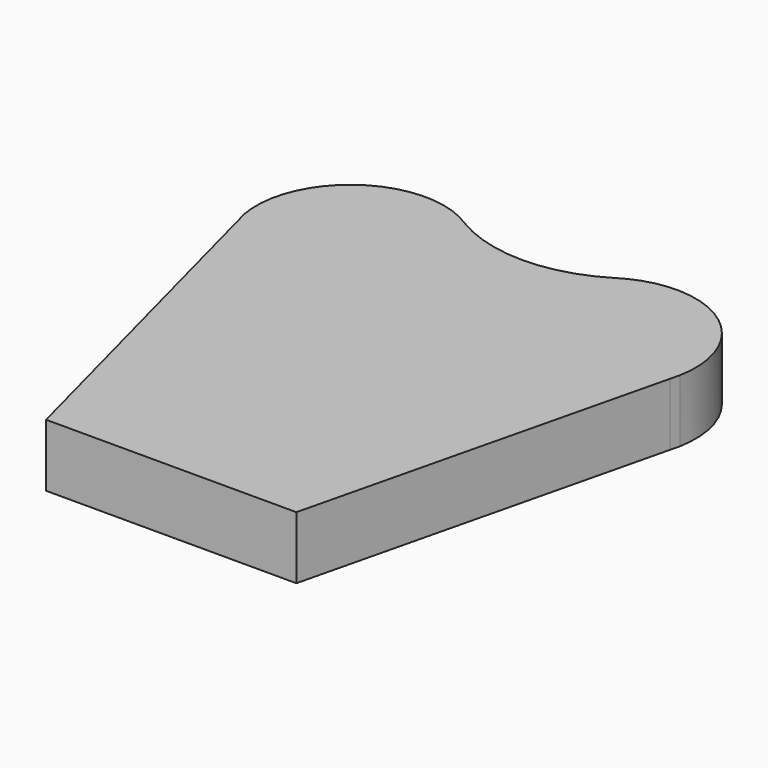
from build123d import *

# Parameters (mm, degrees)
F1_DEPTH = 5


with BuildPart() as f1:
    # F0 (on Top) → F1 (new body)
    with BuildSketch(Plane.XY):
        with BuildLine():
            ThreePointArc((-7.531189, 65.674413), (-13.478061, 64.012162), (-19.424933, 65.674413))
            ThreePointArc((-19.424933, 65.674413), (-27.691208, 65.630451), (-30.896061, 58.010598))
            Line((-30.896061, 58.010598), (-30.628454, 56.988378))
            Line((-30.628454, 56.988378), (-23.195385, 28.595213))
            Line((-23.195385, 28.595213), (-13.195385, 28.595213))
            Line((-13.195385, 28.595213), (-3.195385, 28.595213))
            Line((-3.195385, 28.595213), (3.75462, 57.24662))
            Line((3.75462, 57.24662), (3.93994, 58.010598))
            ThreePointArc((3.93994, 58.010598), (0.735086, 65.630451), (-7.531189, 65.674413))
        make_face()
    extrude(amount=F1_DEPTH)


solid = f1.part
